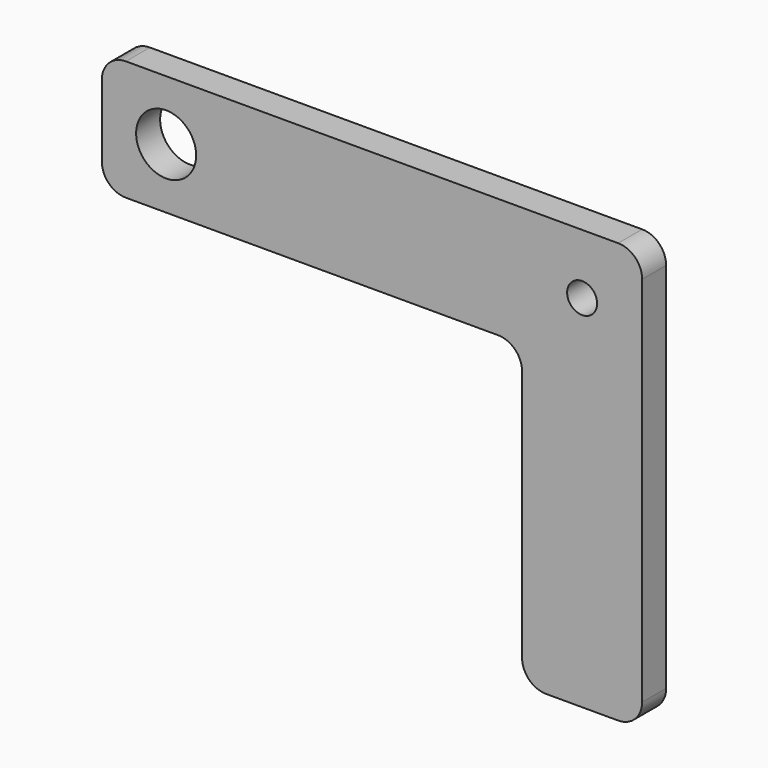
from build123d import *

# Parameters (mm, degrees)
F0_R     = 3.175
F1_DEPTH = 6.35
F2_R     = 5.08
F3_R     = 6.35
F4_DEPTH = 25.4


with BuildPart() as f1:
    # F0 (on Front) → F1 (new body)
    with BuildSketch(Plane.XZ):
        Polygon((88.9, 63.5), (88.9, 0), (114.3, 0), (114.3, 88.9), (0, 88.9), (0, 63.5), align=None)
        with Locations((101.6, 76.2)):
            Circle(F0_R, mode=Mode.SUBTRACT)
    extrude(amount=F1_DEPTH)

    # F2
    f2_edges = [f1.edges().sort_by_distance(p)[0] for p in [
        (0, -3.175, 63.5),
        (0, -3.175, 88.9),
        (114.3, -3.175, 88.9),
        (114.3, -3.175, 0),
        (88.9, -3.175, 0),
        (88.9, -3.175, 63.5),
    ]]
    fillet(f2_edges, radius=F2_R)

    # F3 (on face) → F4 (cut)
    with BuildSketch(Plane(origin=(0, 0, 0), x_dir=(-1, 0, 0), z_dir=(0, 1, 0))):
        with Locations((-13.5994189943, 76.2)):
            Circle(F3_R)
    extrude(amount=-F4_DEPTH, mode=Mode.SUBTRACT)


solid = f1.part
